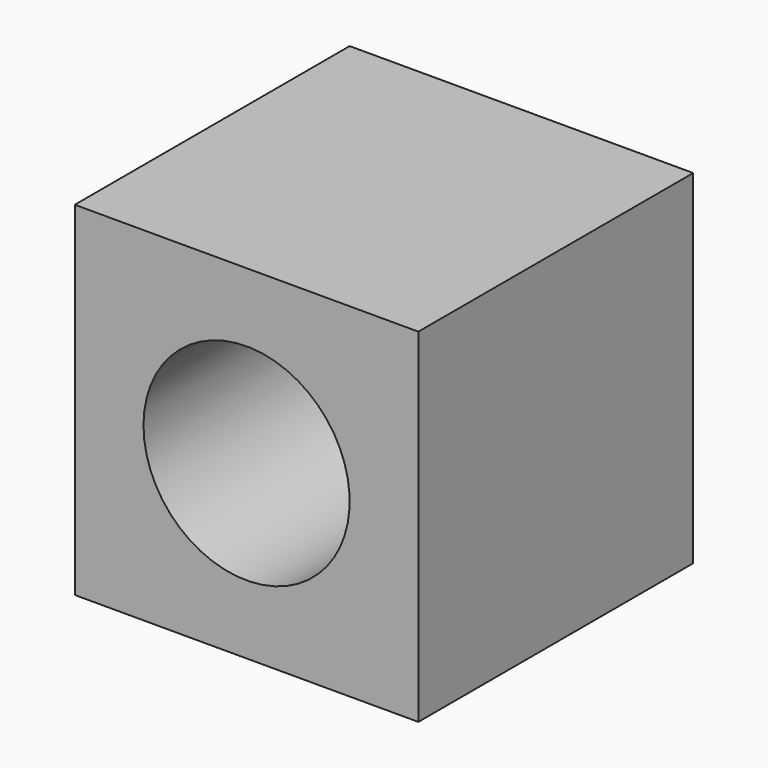
from build123d import *

# Parameters (mm, degrees)
F0_W     = 31.75
F0_H     = 31.75
F1_DEPTH = 15.875
F3_D     = 19.05


with BuildPart() as f1:
    # F0 (on Front) → F1 (new body, symmetric)
    with BuildSketch(Plane.XZ):
        Rectangle(F0_W, F0_H)
    extrude(amount=F1_DEPTH, both=True)

    # F3 (through all)
    with Locations(Plane.XZ.offset(15.875)):
        with Locations((0, 0)):
            Hole(F3_D / 2)


solid = f1.part
